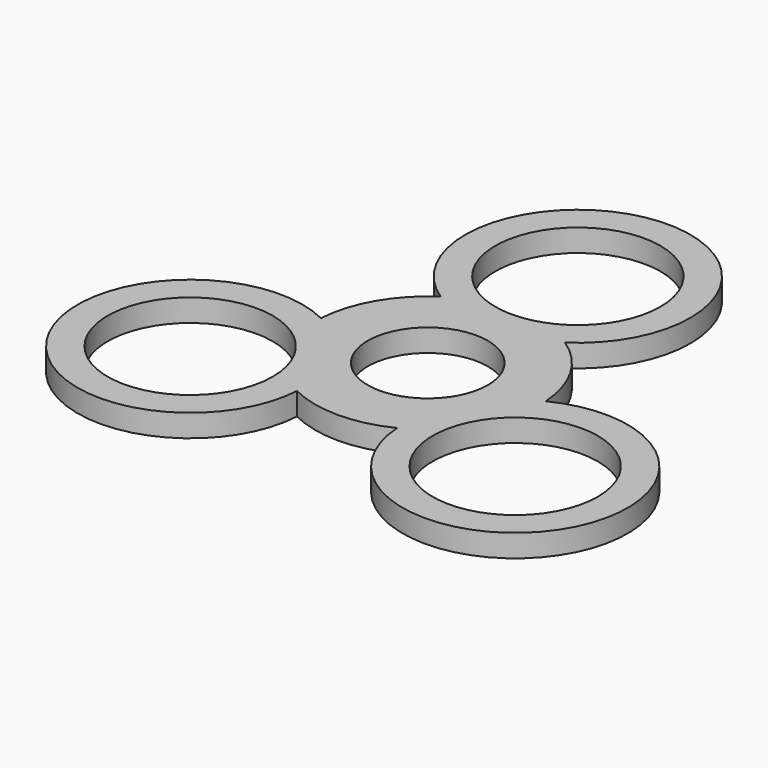
from build123d import *

# Parameters (mm, degrees)
F0_R     = 11
F0_R_2   = 8
F1_DEPTH = 3


with BuildPart() as f1:
    # F0 (on Top) → F1 (new body)
    with BuildSketch(Plane.XY):
        with BuildLine():
            ThreePointArc((8.291562, 12.5), (0, 40), (-8.291562, 12.5))
            ThreePointArc((-8.291562, 12.5), (-12.990381, 7.5), (-14.971099, 0.930703))
            ThreePointArc((-14.971099, 0.930703), (-34.641016, -20), (-6.679537, -13.430703))
            ThreePointArc((-6.679537, -13.430703), (0, -15), (6.679537, -13.430703))
            ThreePointArc((6.679537, -13.430703), (34.641016, -20), (14.971099, 0.930703))
            ThreePointArc((14.971099, 0.930703), (12.990381, 7.5), (8.291562, 12.5))
        make_face()
        with Locations((-21.650635, -12.5)):
            Circle(F0_R, mode=Mode.SUBTRACT)
        with Locations((21.650635, -12.5)):
            Circle(F0_R, mode=Mode.SUBTRACT)
        Circle(F0_R_2, mode=Mode.SUBTRACT)
        with Locations((0, 25)):
            Circle(F0_R, mode=Mode.SUBTRACT)
    extrude(amount=F1_DEPTH)


solid = f1.part
